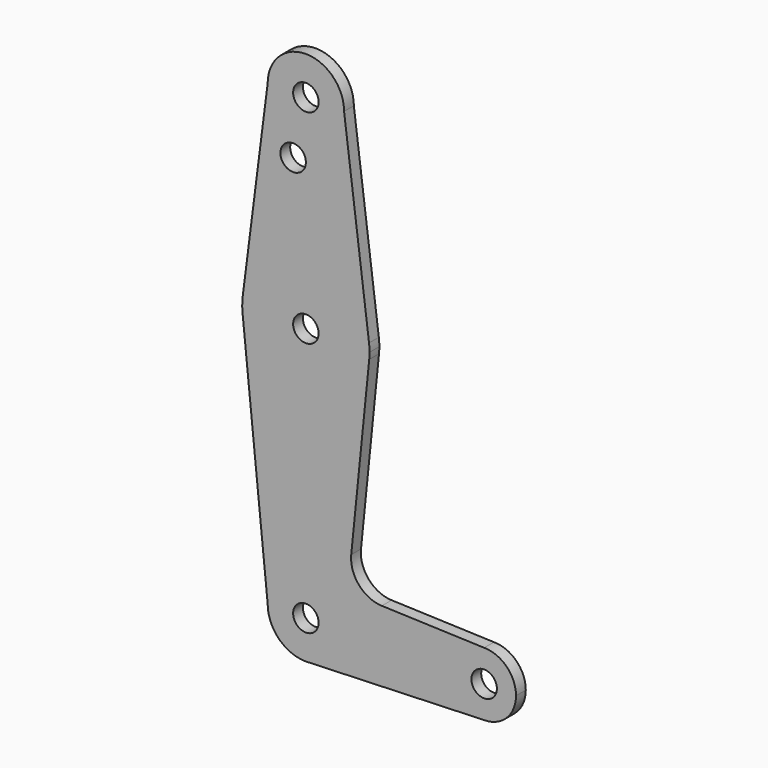
from build123d import *

# Parameters (mm, degrees)
F0_R     = 3.175
F1_DEPTH = 3.048


with BuildPart() as f1:
    # F0 (on Front) → F1 (new body)
    with BuildSketch(Plane.XZ):
        with BuildLine():
            ThreePointArc((-9.525, 114.3), (0, 104.775), (9.525, 114.3))
            ThreePointArc((9.525, 114.3), (0, 123.825), (-9.525, 114.3))
        make_face()
        with Locations((0, 114.3)):
            Circle(F0_R, mode=Mode.SUBTRACT)
        with BuildLine():
            Line((15.747457, 65.508289), (9.525, 114.3))
            ThreePointArc((9.525, 114.3), (0, 104.775), (-9.525, 114.3))
            Line((-9.525, 114.3), (-15.747457, 65.508289))
            ThreePointArc((-15.747457, 65.508289), (0, 79.375), (15.747457, 65.508289))
        make_face()
        with Locations((-3.175, 100.0252)):
            Circle(F0_R, mode=Mode.SUBTRACT)
        with BuildLine():
            ThreePointArc((15.875, 63.5), (15.843082, 64.506168), (15.747457, 65.508289))
            ThreePointArc((15.747457, 65.508289), (0, 79.375), (-15.747457, 65.508289))
            ThreePointArc((-15.747457, 65.508289), (-15.873668, 63.705667), (-15.794203, 61.90038))
            ThreePointArc((-15.794203, 61.90038), (0, 47.625), (15.794203, 61.90038))
            ThreePointArc((15.794203, 61.90038), (15.854788, 62.699171), (15.875, 63.5))
        make_face()
        with Locations((0, 63.5)):
            Circle(F0_R, mode=Mode.SUBTRACT)
        with BuildLine():
            ThreePointArc((15.794203, 61.90038), (0, 47.625), (-15.794203, 61.90038))
            Line((-15.794203, 61.90038), (-9.525, 0))
            ThreePointArc((-9.525, 0), (0, 9.525), (9.525, 0))
            ThreePointArc((9.525, 0), (6.97129, -6.490511), (0.67949, -9.500732))
            Line((0.67949, -9.500732), (44.45, -7.9375))
            ThreePointArc((44.45, -7.9375), (36.5125, 0), (44.45, 7.9375))
            Line((44.45, 7.9375), (18.932989, 8.848822))
            ThreePointArc((18.932989, 8.848822), (13.224462, 11.569184), (11.307007, 17.595046))
            Line((11.307007, 17.595046), (15.794203, 61.90038))
        make_face()
        with BuildLine():
            ThreePointArc((9.525, 0), (0, 9.525), (-9.525, 0))
            ThreePointArc((-9.525, 0), (-6.735192, -6.735192), (0, -9.525))
            Line((0, -9.525), (0.67949, -9.500732))
            ThreePointArc((0.67949, -9.500732), (6.97129, -6.490511), (9.525, 0))
        make_face()
        Circle(F0_R, mode=Mode.SUBTRACT)
        with BuildLine():
            Line((0.67949, -9.500732), (0, -9.525))
            ThreePointArc((0, -9.525), (0.339962, -9.518931), (0.67949, -9.500732))
        make_face()
        with BuildLine():
            ThreePointArc((52.3875, 0), (50.06266, 5.61266), (44.45, 7.9375))
            ThreePointArc((44.45, 7.9375), (36.5125, 0), (44.45, -7.9375))
            ThreePointArc((44.45, -7.9375), (50.06266, -5.61266), (52.3875, 0))
        make_face()
        with Locations((44.45, 0)):
            Circle(F0_R, mode=Mode.SUBTRACT)
    extrude(amount=F1_DEPTH)


solid = f1.part
